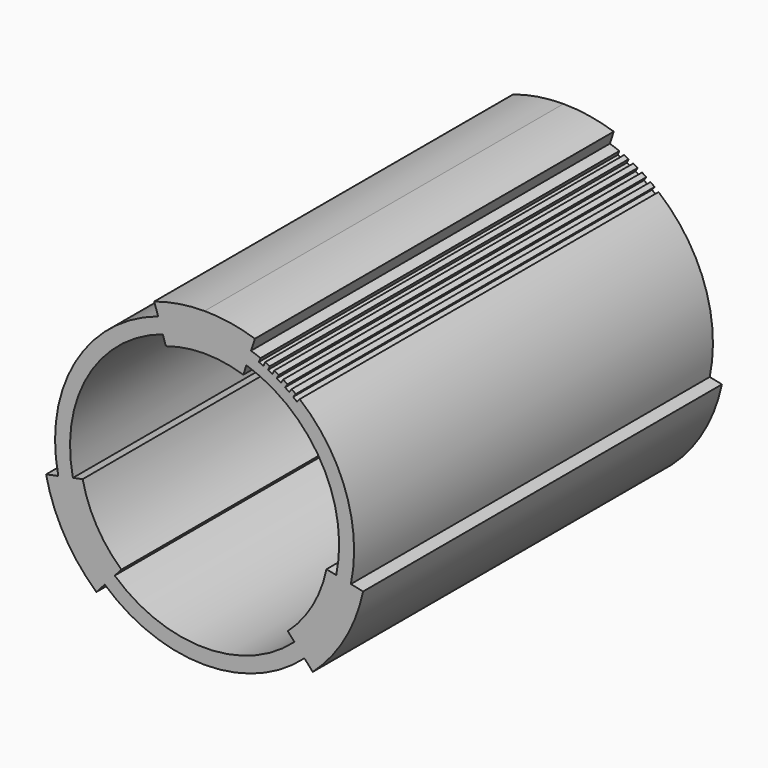
from build123d import *

# Parameters (mm, degrees)
F1_DEPTH = 90


with BuildPart() as f1:
    # F0 (on Front) → F1 (new body)
    with BuildSketch(Plane.XZ):
        with BuildLine():
            Line((-15.323647, 22.809437), (-14.54678, 20.433205))
            ThreePointArc((-14.54678, 20.433205), (-31.205136, 6.918424), (-34.580102, -14.265527))
            Line((-34.580102, -14.265527), (-37.026413, -14.780856))
            ThreePointArc((-37.026413, -14.780856), (-33.3702, -24.331576), (-26.92714, -32.273309))
            Line((-26.92714, -32.273309), (-25.257697, -30.412407))
            ThreePointArc((-25.257697, -30.412407), (-5.224374, -38.081576), (14.808948, -30.412407))
            Line((14.808948, -30.412407), (16.478392, -32.273309))
            ThreePointArc((16.478392, -32.273309), (22.921451, -24.331576), (26.577664, -14.780856))
            Line((26.577664, -14.780856), (24.131354, -14.265527))
            ThreePointArc((24.131354, -14.265527), (23.091117, 1.829678), (13.866516, 15.060116))
            Line((13.866516, 15.060116), (13.326836, 14.405924))
            ThreePointArc((13.326836, 14.405924), (12.941248, 14.718539), (12.550393, 15.024543))
            Line((12.550393, 15.024543), (13.067485, 15.696731))
            ThreePointArc((13.067485, 15.696731), (12.659955, 16.004743), (12.247241, 16.30577))
            Line((12.247241, 16.30577), (11.753336, 15.616366))
            ThreePointArc((11.753336, 15.616366), (11.347366, 15.902013), (10.93659, 16.180706))
            Line((10.93659, 16.180706), (11.406734, 16.886528))
            ThreePointArc((11.406734, 16.886528), (10.979187, 17.166089), (10.546941, 17.43833))
            Line((10.546941, 17.43833), (10.101103, 16.716909))
            ThreePointArc((10.101103, 16.716909), (9.676632, 16.974263), (9.247842, 17.224353))
            Line((9.247842, 17.224353), (9.668858, 17.960536))
            ThreePointArc((9.668858, 17.960536), (9.223275, 18.210351), (8.773503, 18.452542))
            Line((8.773503, 18.452542), (8.377798, 17.70245))
            ThreePointArc((8.377798, 17.70245), (7.936796, 17.930319), (7.491979, 18.150645))
            Line((7.491979, 18.150645), (7.861915, 18.913776))
            ThreePointArc((7.861915, 18.913776), (7.400363, 19.132685), (6.93515, 19.343703))
            Line((6.93515, 19.343703), (6.591413, 18.568419))
            ThreePointArc((6.591413, 18.568419), (6.135926, 18.765745), (5.677145, 18.955287))
            Line((5.677145, 18.955287), (5.994285, 19.741826))
            ThreePointArc((5.994285, 19.741826), (5.051974, 20.103467), (4.098031, 20.433205))
            Line((4.098031, 20.433205), (4.874898, 22.809437))
            ThreePointArc((4.874898, 22.809437), (-0.111055, 24.013656), (-5.224374, 24.418424))
            ThreePointArc((-5.224374, 24.418424), (-10.337694, 24.013656), (-15.323647, 22.809437))
        make_face()
        with BuildLine():
            ThreePointArc((-12.993045, 15.680742), (-9.157697, 16.607064), (-5.224374, 16.918424))
            ThreePointArc((-5.224374, 16.918424), (-1.291052, 16.607064), (2.544297, 15.680742))
            Line((2.544297, 15.680742), (3.165791, 17.581727))
            ThreePointArc((3.165791, 17.581727), (18.158312, 5.418424), (21.195781, -13.647132))
            Line((21.195781, -13.647132), (19.238732, -13.234869))
            ThreePointArc((19.238732, -13.234869), (16.426261, -20.581576), (11.470061, -26.690602))
            Line((11.470061, -26.690602), (12.805616, -28.179324))
            ThreePointArc((12.805616, -28.179324), (-5.224374, -35.081576), (-23.254364, -28.179324))
            Line((-23.254364, -28.179324), (-21.91881, -26.690602))
            ThreePointArc((-21.91881, -26.690602), (-26.875009, -20.581576), (-29.687481, -13.234869))
            Line((-29.687481, -13.234869), (-31.644529, -13.647132))
            ThreePointArc((-31.644529, -13.647132), (-28.60706, 5.418424), (-13.614539, 17.581727))
            Line((-13.614539, 17.581727), (-12.993045, 15.680742))
        make_face(mode=Mode.SUBTRACT)
    extrude(amount=F1_DEPTH)


solid = f1.part
